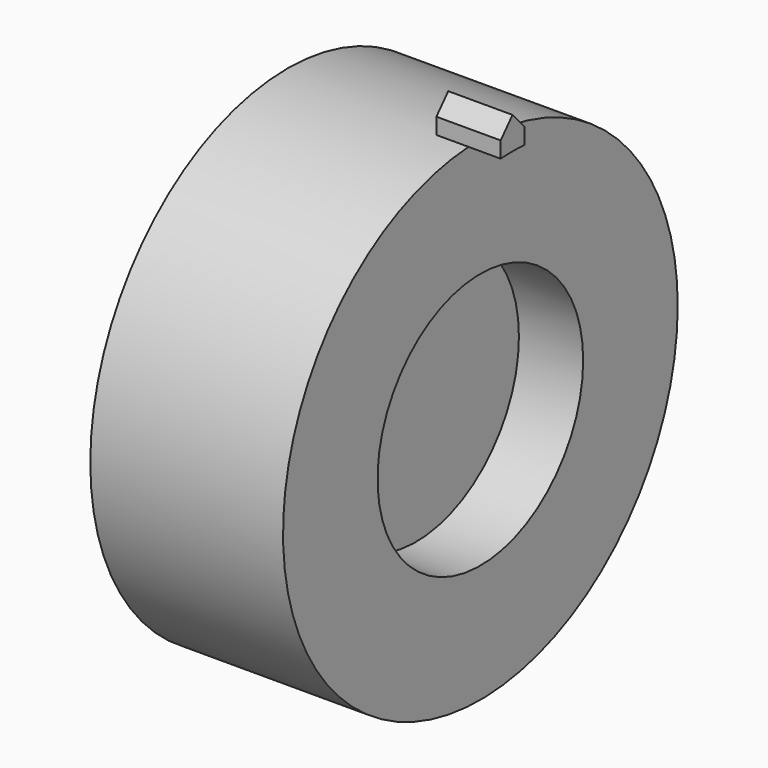
from build123d import *

# Parameters (mm, degrees)
F3_DEPTH = 12.7


with BuildPart() as f1:
    # F0 (on Top) → F1 (revolve)
    with BuildSketch(Plane.XY):
        Polygon((-38.1, 97.5220042493), (-38.1, 50.8), (-12.7, 50.8), (-12.7, 0), (12.7, 0), (12.7, 50.8), (38.1, 50.8), (38.1, 97.5220042493), align=None)
    revolve(axis=Axis((-3.145875015, 0, 0), (1, 0, 0)))

    # F2 (on face) → F3 (join, symmetric)
    with BuildSketch(Plane.YZ.offset(38.1)):
        with BuildLine():
            Line((-5.8484994777, 103.7072240523), (-5.8484994777, 97.3464758821))
            ThreePointArc((-5.8484994777, 97.3464758821), (0, 97.5220042493), (5.8484994777, 97.3464758821))
            Line((5.8484994777, 97.3464758821), (5.8484994777, 103.7072240523))
            Line((5.8484994777, 103.7072240523), (0, 110.2220042493))
            Line((0, 110.2220042493), (-5.8484994777, 103.7072240523))
        make_face()
    extrude(amount=F3_DEPTH, both=True)


solid = f1.part
